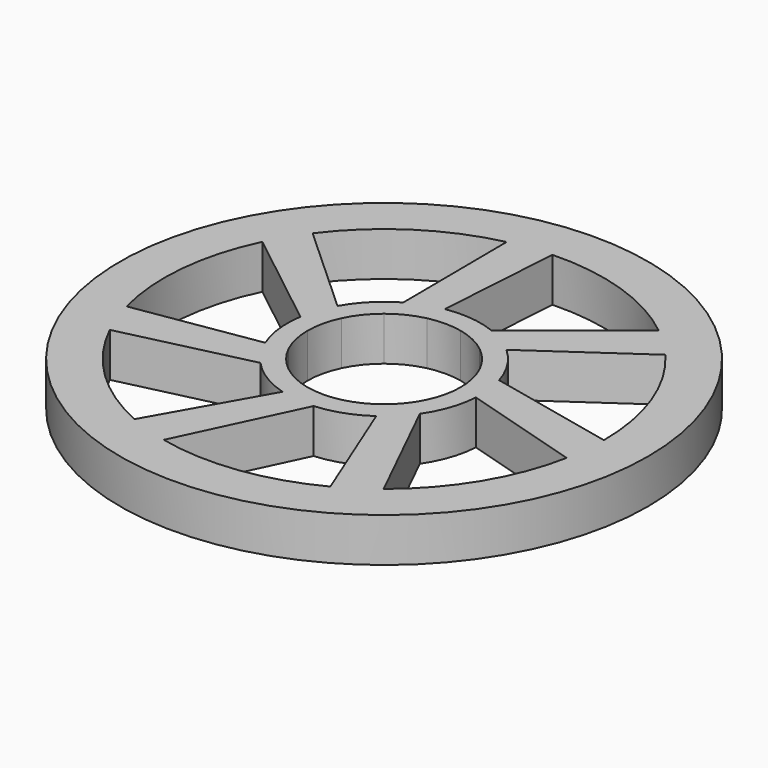
from build123d import *

# Parameters (mm, degrees)
F0_R     = 38.1
F1_DEPTH = 6.35


with BuildPart() as f1:
    # F0 (on Top) → F1 (new body)
    with BuildSketch(Plane.XY):
        Circle(F0_R)
        with BuildLine():
            ThreePointArc((31.7250303997, 0), (31.5812646245, -3.0168325409), (31.1512702825, -6.0063228058))
            ThreePointArc((31.1512702825, -6.0063228058), (27.1447816525, -16.4206693804), (19.7802329179, -24.8036275488))
            ThreePointArc((19.7802329179, -24.8036275488), (17.3319417654, -26.5721912628), (14.7265670727, -28.0999248419))
            ThreePointArc((14.7265670727, -28.0999248419), (4.0862982493, -31.460764779), (-7.0594833943, -30.9296176515))
            ThreePointArc((-7.0594833943, -30.9296176515), (-9.9686867503, -30.1181479898), (-12.7875415101, -29.033710338))
            ThreePointArc((-12.7875415101, -29.033710338), (-22.049251081, -22.8102626164), (-28.5832647234, -13.7649748135))
            ThreePointArc((-28.5832647234, -13.7649748135), (-29.7626908188, -10.9845249823), (-30.6723705175, -8.1045197699))
            ThreePointArc((-30.6723705175, -8.1045197699), (-31.5812646245, 3.0168325409), (-28.5832647234, 13.7649748135))
            ThreePointArc((-28.5832647234, 13.7649748135), (-27.1447816525, 16.4206693804), (-25.4602789229, 18.9275394871))
            ThreePointArc((-25.4602789229, 18.9275394871), (-17.3319417654, 26.5721912628), (-7.0594833943, 30.9296176515))
            ThreePointArc((-7.0594833943, 30.9296176515), (-4.0862982493, 31.460764779), (-1.0760780042, 31.7067754588))
            ThreePointArc((-1.0760780042, 31.7067754588), (9.9686867503, 30.1181479898), (19.7802329179, 24.8036275488))
            ThreePointArc((19.7802329179, 24.8036275488), (22.049251081, 22.8102626164), (24.1184315996, 20.6101628097))
            ThreePointArc((24.1184315996, 20.6101628097), (29.7626908188, 10.9845249823), (31.7250303997, 0))
        make_face(mode=Mode.SUBTRACT)
        with BuildLine():
            Line((-10.2881439148, -9.4506610768), (-6.878658835, -8.6466440676))
            ThreePointArc((-6.878658835, -8.6466440676), (-8.634357457, -6.8940751595), (-9.9548050215, -4.7939814335))
            Line((-9.9548050215, -4.7939814335), (-12.9376014162, -5.270613778))
            ThreePointArc((-12.9376014162, -5.270613778), (-11.7994495804, -7.4788962822), (-10.2881439148, -9.4506610768))
        make_face()
        with BuildLine():
            Line((-28.5832647234, -13.7649748135), (-10.2881439148, -9.4506610768))
            ThreePointArc((-10.2881439148, -9.4506610768), (-11.7994495804, -7.4788962822), (-12.9376014162, -5.270613778))
            Line((-12.9376014162, -5.270613778), (-30.6723705175, -8.1045197699))
            ThreePointArc((-30.6723705175, -8.1045197699), (-29.7626908188, -10.9845249823), (-28.5832647234, -13.7649748135))
        make_face()
        with BuildLine():
            ThreePointArc((-11.0489921838, -0.0131423621), (-10.7734388222, 2.4522269355), (-9.9548050215, 4.7939814335))
            Line((-9.9548050215, 4.7939814335), (-12.187194327, 6.8288501547))
            ThreePointArc((-12.187194327, 6.8288501547), (-13.2040730485, 4.5621655966), (-13.8033771709, 2.1512040066))
            Line((-13.8033771709, 2.1512040066), (-11.0489921838, -0.0131423621))
        make_face()
        with BuildLine():
            ThreePointArc((-13.8033771709, 2.1512040066), (-13.2040730485, 4.5621655966), (-12.187194327, 6.8288501547))
            Line((-12.187194327, 6.8288501547), (-25.4602789229, 18.9275394871))
            ThreePointArc((-25.4602789229, 18.9275394871), (-27.1447816525, 16.4206693804), (-28.5832647234, 13.7649748135))
            Line((-28.5832647234, 13.7649748135), (-13.8033771709, 2.1512040066))
        make_face()
        with BuildLine():
            ThreePointArc((-6.8992090599, 8.6302558101), (-4.7999010163, 9.9519521318), (-2.4586337993, 10.7719785017))
            Line((-2.4586337993, 10.7719785017), (-2.2595813362, 13.7860506377))
            ThreePointArc((-2.2595813362, 13.7860506377), (-4.665760197, 13.16782373), (-6.9243858797, 12.1331685964))
            Line((-6.9243858797, 12.1331685964), (-6.8992090599, 8.6302558101))
        make_face()
        with BuildLine():
            ThreePointArc((-6.9243858797, 12.1331685964), (-4.665760197, 13.16782373), (-2.2595813362, 13.7860506377))
            Line((-2.2595813362, 13.7860506377), (-1.0760780042, 31.7067754588))
            ThreePointArc((-1.0760780042, 31.7067754588), (-4.0862982493, 31.460764779), (-7.0594833943, 30.9296176515))
            Line((-7.0594833943, 30.9296176515), (-6.9243858797, 12.1331685964))
        make_face()
        with BuildLine():
            ThreePointArc((2.4458192044, 10.7748953322), (4.7880601551, 9.95765439), (6.8889388207, 8.6384560498))
            Line((6.8889388207, 8.6384560498), (9.3695424879, 10.3620738064))
            ThreePointArc((9.3695424879, 10.3620738064), (7.3859652469, 11.85784202), (5.1688092106, 12.9786097616))
            Line((5.1688092106, 12.9786097616), (2.4458192044, 10.7748953322))
        make_face()
        with BuildLine():
            ThreePointArc((5.1688092106, 12.9786097616), (7.3859652469, 11.85784202), (9.3695424879, 10.3620738064))
            Line((9.3695424879, 10.3620738064), (24.1184315996, 20.6101628097))
            ThreePointArc((24.1184315996, 20.6101628097), (22.049251081, 22.8102626164), (19.7802329179, 24.8036275488))
            Line((19.7802329179, 24.8036275488), (5.1688092106, 12.9786097616))
        make_face()
        with BuildLine():
            ThreePointArc((9.9490957221, 4.8058189013), (10.770514371, 2.4650397934), (11.049, 0))
            Line((11.049, 0), (13.9432097147, -0.864755949))
            ThreePointArc((13.9432097147, -0.864755949), (13.9633008224, -0.4325854166), (13.97, 0))
            ThreePointArc((13.97, 0), (13.8191317384, 2.0475590338), (13.3697855409, 4.0508930609))
            Line((13.3697855409, 4.0508930609), (9.9490957221, 4.8058189013))
        make_face()
        with BuildLine():
            ThreePointArc((13.97, 0), (13.9633008224, -0.4325854166), (13.9432097147, -0.864755949))
            Line((13.9432097147, -0.864755949), (31.1512702825, -6.0063228058))
            ThreePointArc((31.1512702825, -6.0063228058), (31.5812646245, -3.0168325409), (31.7250303997, 0))
            Line((31.7250303997, 0), (13.3697855409, 4.0508930609))
            ThreePointArc((13.3697855409, 4.0508930609), (13.8191317384, 2.0475590338), (13.97, 0))
        make_face()
        with BuildLine():
            Line((11.5030406649, -7.9272287378), (9.9605002365, -4.7821371831))
            ThreePointArc((9.9605002365, -4.7821371831), (8.6425515871, -6.8838000453), (6.8889388207, -8.6384560498))
            Line((6.8889388207, -8.6384560498), (8.0173556368, -11.4404068369))
            ThreePointArc((8.0173556368, -11.4404068369), (9.9170092786, -9.8394017586), (11.5030406649, -7.9272287378))
        make_face()
        with BuildLine():
            Line((19.7802329179, -24.8036275488), (11.5030406649, -7.9272287378))
            ThreePointArc((11.5030406649, -7.9272287378), (9.9170092786, -9.8394017586), (8.0173556368, -11.4404068369))
            Line((8.0173556368, -11.4404068369), (14.7265670727, -28.0999248419))
            ThreePointArc((14.7265670727, -28.0999248419), (17.3319417654, -26.5721912628), (19.7802329179, -24.8036275488))
        make_face()
        with BuildLine():
            Line((0.974271549, -13.935985611), (2.4714449156, -10.7690464308))
            ThreePointArc((2.4714449156, -10.7690464308), (0.0065711822, -11.048998046), (-2.4586337993, -10.7719785017))
            Line((-2.4586337993, -10.7719785017), (-3.9457307599, -13.4011980349))
            ThreePointArc((-3.9457307599, -13.4011980349), (-1.5095999134, -13.8881967189), (0.974271549, -13.935985611))
        make_face()
        with BuildLine():
            Line((-7.0594833943, -30.9296176515), (0.974271549, -13.935985611))
            ThreePointArc((0.974271549, -13.935985611), (-1.5095999134, -13.8881967189), (-3.9457307599, -13.4011980349))
            Line((-3.9457307599, -13.4011980349), (-12.7875415101, -29.033710338))
            ThreePointArc((-12.7875415101, -29.033710338), (-9.9686867503, -30.1181479898), (-7.0594833943, -30.9296176515))
        make_face()
        with BuildLine():
            ThreePointArc((-9.9548050215, 4.7939814335), (-8.6425515871, 6.8838000453), (-6.8992090599, 8.6302558101))
            Line((-6.8992090599, 8.6302558101), (-6.9243858797, 12.1331685964))
            ThreePointArc((-6.9243858797, 12.1331685964), (-9.9170092786, 9.8394017586), (-12.187194327, 6.8288501547))
            Line((-12.187194327, 6.8288501547), (-9.9548050215, 4.7939814335))
        make_face()
        with BuildLine():
            Line((-12.9376014162, -5.270613778), (-9.9548050215, -4.7939814335))
            ThreePointArc((-9.9548050215, -4.7939814335), (-10.770514371, -2.4650397934), (-11.0489921838, -0.0131423621))
            Line((-11.0489921838, -0.0131423621), (-13.8033771709, 2.1512040066))
            ThreePointArc((-13.8033771709, 2.1512040066), (-13.8759082137, -1.6186634131), (-12.9376014162, -5.270613778))
        make_face()
        with BuildLine():
            Line((-3.9457307599, -13.4011980349), (-2.4586337993, -10.7719785017))
            ThreePointArc((-2.4586337993, -10.7719785017), (-4.7880601551, -9.95765439), (-6.878658835, -8.6466440676))
            Line((-6.878658835, -8.6466440676), (-10.2881439148, -9.4506610768))
            ThreePointArc((-10.2881439148, -9.4506610768), (-7.3859652469, -11.85784202), (-3.9457307599, -13.4011980349))
        make_face()
        with BuildLine():
            Line((8.0173556368, -11.4404068369), (6.8889388207, -8.6384560498))
            ThreePointArc((6.8889388207, -8.6384560498), (4.7999010163, -9.9519521318), (2.4714449156, -10.7690464308))
            Line((2.4714449156, -10.7690464308), (0.974271549, -13.935985611))
            ThreePointArc((0.974271549, -13.935985611), (4.665760197, -13.16782373), (8.0173556368, -11.4404068369))
        make_face()
        with BuildLine():
            Line((13.9432097147, -0.864755949), (11.049, 0))
            ThreePointArc((11.049, 0), (10.7734388222, -2.4522269355), (9.9605002365, -4.7821371831))
            Line((9.9605002365, -4.7821371831), (11.5030406649, -7.9272287378))
            ThreePointArc((11.5030406649, -7.9272287378), (13.2040730485, -4.5621655966), (13.9432097147, -0.864755949))
        make_face()
        with BuildLine():
            ThreePointArc((6.8889388207, 8.6384560498), (8.634357457, 6.8940751595), (9.9490957221, 4.8058189013))
            Line((9.9490957221, 4.8058189013), (13.3697855409, 4.0508930609))
            ThreePointArc((13.3697855409, 4.0508930609), (11.7994495804, 7.4788962822), (9.3695424879, 10.3620738064))
            Line((9.3695424879, 10.3620738064), (6.8889388207, 8.6384560498))
        make_face()
        with BuildLine():
            ThreePointArc((-2.4586337993, 10.7719785017), (-0.0065711822, 11.048998046), (2.4458192044, 10.7748953322))
            Line((2.4458192044, 10.7748953322), (5.1688092106, 12.9786097616))
            ThreePointArc((5.1688092106, 12.9786097616), (1.5095999134, 13.8881967189), (-2.2595813362, 13.7860506377))
            Line((-2.2595813362, 13.7860506377), (-2.4586337993, 10.7719785017))
        make_face()
    extrude(amount=F1_DEPTH)


solid = f1.part
